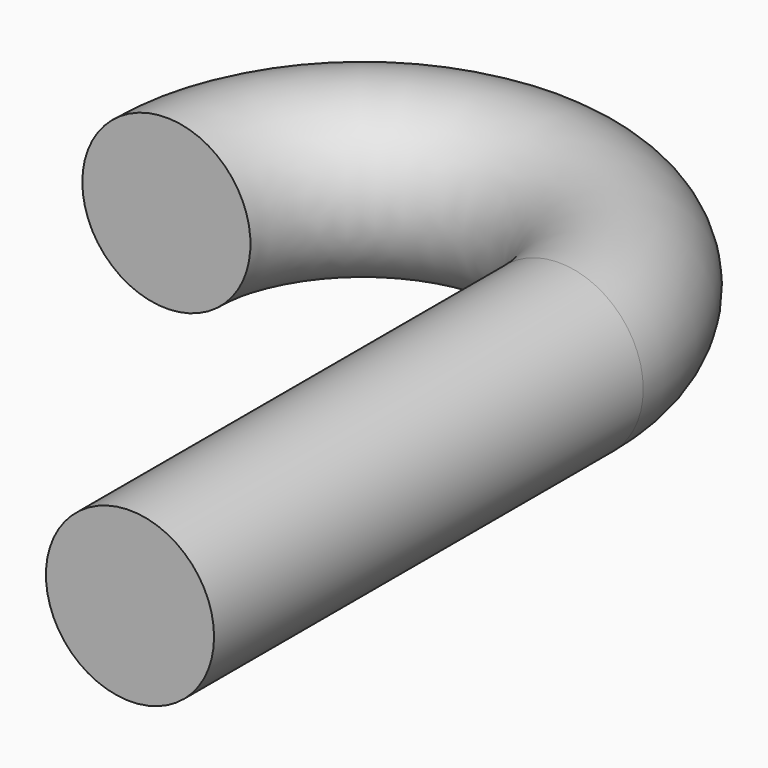
from build123d import *

# Parameters (mm, degrees)
F1_R = 6.35


with BuildPart() as f2:
    # F2: sweep along a path in F0
    with BuildLine(Plane.XY) as f2_path:
        Line((0, 0), (0, 40.522825))
        ThreePointArc((0, 40.522825), (-14.834248, 55.357073), (-29.668497, 40.522825))
    # F1 (on Front) → F2 (sweep)
    with BuildSketch(Plane.XZ):
        Circle(F1_R)
    sweep(path=f2_path.line)


solid = f2.part
